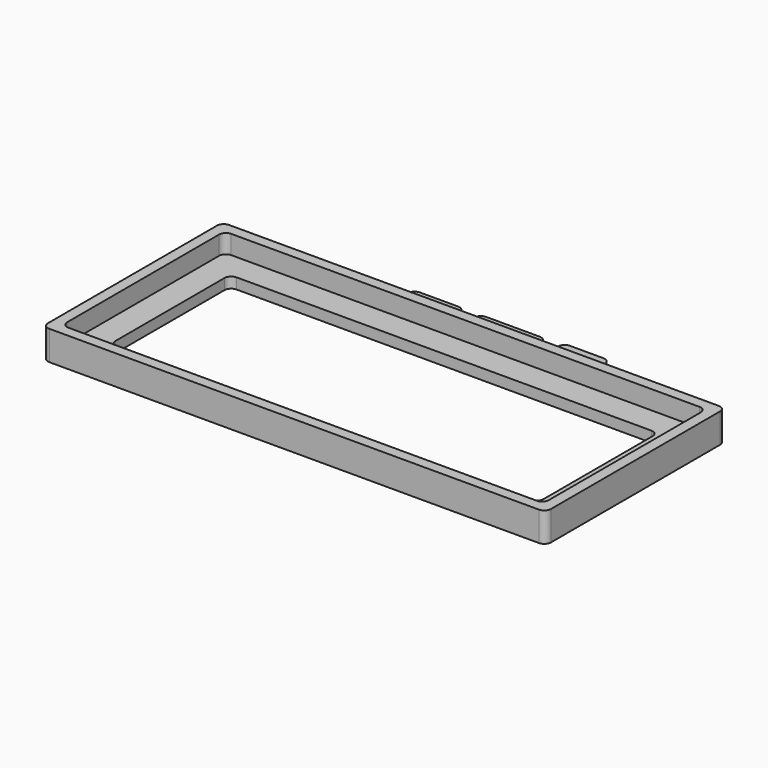
from build123d import *

# Parameters (mm, degrees)
F1_DEPTH = 11
F2_DEPTH = 4


with BuildPart() as f1:
    # F0 (on Top) → F1 (new body)
    with BuildSketch(Plane.XY):
        with BuildLine():
            ThreePointArc((94, 77.5), (93.267767, 79.267767), (91.5, 80))
            Line((91.5, 80), (40.553054, 80))
            Line((40.553054, 80), (23, 80))
            Line((23, 80), (17.5, 80))
            Line((17.5, 80), (-7.5, 80))
            Line((-7.5, 80), (-13, 80))
            Line((-13, 80), (-32.2531, 80))
            Line((-32.2531, 80), (-74.5, 80))
            Line((-74.5, 80), (-91.5, 80))
            ThreePointArc((-91.5, 80), (-93.267767, 79.267767), (-94, 77.5))
            Line((-94, 77.5), (-94, 76))
            Line((-94, 76), (-94, 0))
            Line((-94, 0), (-94, -1.5))
            ThreePointArc((-94, -1.5), (-93.267767, -3.267767), (-91.5, -4))
            Line((-91.5, -4), (-88, -4))
            Line((-88, -4), (88, -4))
            Line((88, -4), (91.5, -4))
            ThreePointArc((91.5, -4), (93.267767, -3.267767), (94, -1.5))
            Line((94, -1.5), (94, 0))
            Line((94, 0), (94, 76))
            Line((94, 76), (94, 77.5))
        make_face()
        with BuildLine():
            ThreePointArc((90, 2.5), (89.267767, 0.732233), (87.5, 0))
            Line((87.5, 0), (-87.5, 0))
            ThreePointArc((-87.5, 0), (-89.267767, 0.732233), (-90, 2.5))
            Line((-90, 2.5), (-90, 73.5))
            ThreePointArc((-90, 73.5), (-89.267767, 75.267767), (-87.5, 76))
            Line((-87.5, 76), (87.5, 76))
            ThreePointArc((87.5, 76), (89.267767, 75.267767), (90, 73.5))
            Line((90, 73.5), (90, 2.5))
        make_face(mode=Mode.SUBTRACT)
    extrude(amount=F1_DEPTH)

    # F0 (on Top) → F2 (join)
    with BuildSketch(Plane.XY):
        with BuildLine():
            Line((-87.5, 0), (87.5, 0))
            ThreePointArc((87.5, 0), (89.267767, 0.732233), (90, 2.5))
            Line((90, 2.5), (90, 73.5))
            ThreePointArc((90, 73.5), (89.267767, 75.267767), (87.5, 76))
            Line((87.5, 76), (-87.5, 76))
            ThreePointArc((-87.5, 76), (-89.267767, 75.267767), (-90, 73.5))
            Line((-90, 73.5), (-90, 2.5))
            ThreePointArc((-90, 2.5), (-89.267767, 0.732233), (-87.5, 0))
        make_face()
        with BuildLine():
            Line((-77.5, 66), (77.5, 66))
            ThreePointArc((77.5, 66), (79.267767, 65.267767), (80, 63.5))
            Line((80, 63.5), (80, 12.5))
            ThreePointArc((80, 12.5), (79.267767, 10.732233), (77.5, 10))
            Line((77.5, 10), (-77.5, 10))
            ThreePointArc((-77.5, 10), (-79.267767, 10.732233), (-80, 12.5))
            Line((-80, 12.5), (-80, 63.5))
            ThreePointArc((-80, 63.5), (-79.267767, 65.267767), (-77.5, 66))
        make_face(mode=Mode.SUBTRACT)
        with BuildLine():
            Line((-32.2531, 80), (-13, 80))
            Line((-13, 80), (-13, 89.5))
            ThreePointArc((-13, 89.5), (-13.732233, 91.267767), (-15.5, 92))
            Line((-15.5, 92), (-29.7531, 92))
            ThreePointArc((-29.7531, 92), (-31.520867, 91.267767), (-32.2531, 89.5))
            Line((-32.2531, 89.5), (-32.2531, 80))
        make_face()
        with BuildLine():
            Line((-7.5, 80), (17.5, 80))
            Line((17.5, 80), (17.5, 89.5))
            ThreePointArc((17.5, 89.5), (16.767767, 91.267767), (15, 92))
            Line((15, 92), (-5, 92))
            ThreePointArc((-5, 92), (-6.767767, 91.267767), (-7.5, 89.5))
            Line((-7.5, 89.5), (-7.5, 80))
        make_face()
        with BuildLine():
            Line((23, 80), (40.553054, 80))
            Line((40.553054, 80), (40.553054, 90.5))
            ThreePointArc((40.553054, 90.5), (39.820821, 92.267767), (38.053054, 93))
            Line((38.053054, 93), (25.5, 93))
            ThreePointArc((25.5, 93), (23.732233, 92.267767), (23, 90.5))
            Line((23, 90.5), (23, 80))
        make_face()
    extrude(amount=F2_DEPTH)


solid = f1.part
